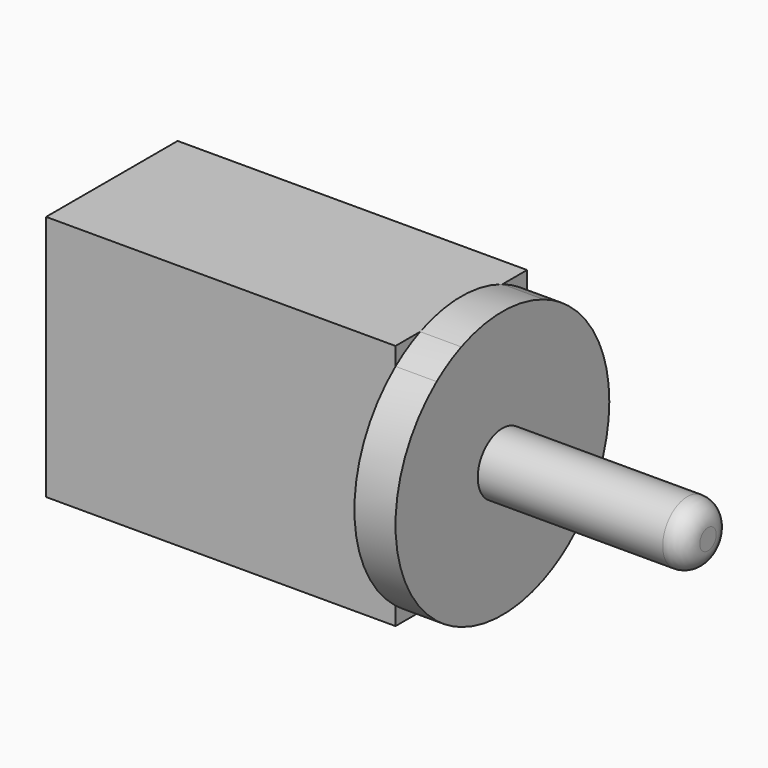
from build123d import *

# Parameters (mm, degrees)
F0_W     = 17
F0_H     = 12
F1_DEPTH = 8
F3_DEPTH = 2
F4_R     = 1.5
F5_DEPTH = 10
F6_R     = 1


with BuildPart() as f1:
    # F0 (on Front) → F1 (new body)
    with BuildSketch(Plane.XZ):
        Rectangle(F0_W, F0_H)
    extrude(amount=F1_DEPTH)

    # F2 (on face) → F3 (join)
    with BuildSketch(Plane.YZ.offset(8.5)):
        with BuildLine():
            Line((0, -5.123475383), (0, 5.123475383))
            ThreePointArc((0, 5.123475383), (-0.7205833063, 5.6120785943), (-1.5, 6))
            Line((-1.5, 6), (-6.5, 6))
            ThreePointArc((-6.5, 6), (-7.2794166937, 5.6120785943), (-8, 5.123475383))
            Line((-8, 5.123475383), (-8, -5.123475383))
            ThreePointArc((-8, -5.123475383), (-7.2794166937, -5.6120785943), (-6.5, -6))
            Line((-6.5, -6), (-1.5, -6))
            ThreePointArc((-1.5, -6), (-0.7205833063, -5.6120785943), (0, -5.123475383))
        make_face()
        with BuildLine():
            ThreePointArc((0, -5.123475383), (1.8416607228, -2.8504385627), (2.5, 0))
            ThreePointArc((2.5, 0), (1.8416607228, 2.8504385627), (0, 5.123475383))
            Line((0, 5.123475383), (0, -5.123475383))
        make_face()
        with BuildLine():
            Line((-6.5, 6), (-1.5, 6))
            ThreePointArc((-1.5, 6), (-4, 6.5), (-6.5, 6))
        make_face()
        with BuildLine():
            Line((-8, -5.123475383), (-8, 5.123475383))
            ThreePointArc((-8, 5.123475383), (-10.5, 0), (-8, -5.123475383))
        make_face()
        with BuildLine():
            ThreePointArc((-6.5, -6), (-4, -6.5), (-1.5, -6))
            Line((-1.5, -6), (-6.5, -6))
        make_face()
    extrude(amount=F3_DEPTH)

    # F4 (on face) → F5 (join)
    with BuildSketch(Plane.YZ.offset(10.5)):
        with Locations((-4, 0)):
            Circle(F4_R)
    extrude(amount=F5_DEPTH)

    # F6
    f6_edges = [f1.edges().sort_by_distance(p)[0] for p in [
        (20.5, -5.5, 0),
    ]]
    fillet(f6_edges, radius=F6_R)


solid = f1.part
